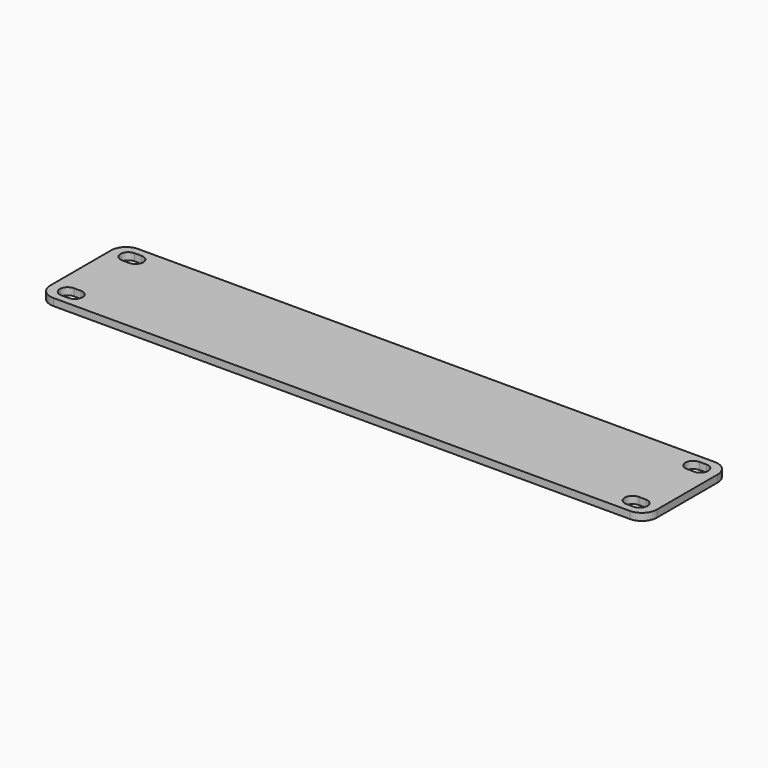
from build123d import *

# Parameters (mm, degrees)
PAD_DEPTH = 3


with BuildPart() as part:
    # Sketch (on XY_Plane of Origin) → Pad (new body)
    with BuildSketch(Plane.XY):
        with BuildLine():
            Line((6.28, 0), (247.72, 0))
            ThreePointArc((247.72, 0), (252.160631, 1.839369), (254, 6.28))
            Line((254, 6.28), (254, 38.12))
            ThreePointArc((254, 38.12), (252.160631, 42.560631), (247.72, 44.4))
            Line((247.72, 44.4), (6.28, 44.4))
            ThreePointArc((6.28, 44.4), (1.839369, 42.560631), (0, 38.12))
            Line((0, 38.12), (0, 6.28))
            ThreePointArc((0, 6.28), (1.839369, 1.839369), (6.28, 0))
        make_face()
        with BuildLine():
            ThreePointArc((243.765, 9.575), (240.515, 6.325), (243.765, 3.075))
            Line((243.765, 3.075), (246.765, 3.075))
            ThreePointArc((246.765, 3.075), (250.015, 6.325), (246.765, 9.575))
            Line((243.765, 9.575), (246.765, 9.575))
        make_face(mode=Mode.SUBTRACT)
        with BuildLine():
            ThreePointArc((243.765, 41.325), (240.515, 38.075), (243.765, 34.825))
            Line((243.765, 34.825), (246.765, 34.825))
            ThreePointArc((246.765, 34.825), (250.015, 38.075), (246.765, 41.325))
            Line((243.765, 41.325), (246.765, 41.325))
        make_face(mode=Mode.SUBTRACT)
        with BuildLine():
            ThreePointArc((7.235, 9.575), (3.985, 6.325), (7.235, 3.075))
            Line((7.235, 3.075), (10.235, 3.075))
            ThreePointArc((10.235, 3.075), (13.485, 6.325), (10.235, 9.575))
            Line((7.235, 9.575), (10.235, 9.575))
        make_face(mode=Mode.SUBTRACT)
        with BuildLine():
            ThreePointArc((7.235, 41.325), (3.985, 38.075), (7.235, 34.825))
            Line((7.235, 34.825), (10.235, 34.825))
            ThreePointArc((10.235, 34.825), (13.485, 38.075), (10.235, 41.325))
            Line((7.235, 41.325), (10.235, 41.325))
        make_face(mode=Mode.SUBTRACT)
    extrude(amount=PAD_DEPTH)


solid = part.part
